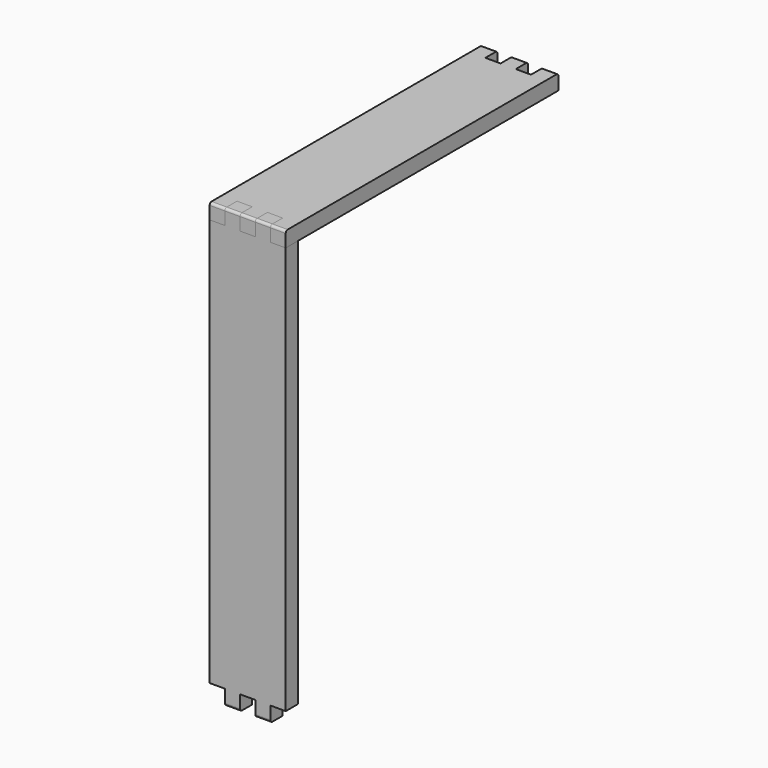
from build123d import *

# Parameters (mm, degrees)
F0_W     = 79.375
F0_H     = 457.2
F1_DEPTH = 15.875
F2_W     = 15.875
F2_H     = 15.875
F3_DEPTH = 15.875
F4_W     = 79.375
F4_H     = 355.6
F5_DEPTH = 15.875
F8_W     = 15.875
F8_H     = 15.875
F9_DEPTH = 15.875
F10_R    = 2.54
F10_2_R  = 2.54


with BuildPart() as f1:
    # F0 (on Front) → F1 (new body)
    with BuildSketch(Plane.XZ):
        with Locations((39.6875, 228.6)):
            Rectangle(F0_W, F0_H)
    extrude(amount=F1_DEPTH)

    # F2 (on face) → F3 (cut, through all)
    with BuildSketch(Plane.XZ.offset(15.875)):
        with Locations((7.9375, 449.2625)):
            Rectangle(F2_W, F2_H)
        with Locations((7.9375, 7.9375)):
            Rectangle(F2_W, F2_H)
        with Locations((39.6875, 449.2625)):
            Rectangle(F2_W, F2_H)
        with Locations((39.6875, 7.9375)):
            Rectangle(F2_W, F2_H)
        with Locations((71.4375, 449.2625)):
            Rectangle(F2_W, F2_H)
        with Locations((71.4375, 7.9375)):
            Rectangle(F2_W, F2_H)
    extrude(amount=-F3_DEPTH, mode=Mode.SUBTRACT)


with BuildPart() as f5:
    # F4 (on face) → F5 (new body)
    with BuildSketch(Plane.XY.offset(457.2)):
        with Locations((39.6875, 161.925)):
            Rectangle(F4_W, F4_H)
    extrude(amount=-F5_DEPTH)

    # F6: cut F1
    add(f1.part, mode=Mode.SUBTRACT)

    # F8 (on face) → F9 (cut, through all)
    with BuildSketch(Plane.XY.offset(457.2)):
        with Locations((23.8125, 331.7875)):
            Rectangle(F8_W, F8_H)
        with Locations((55.5625, 331.7875)):
            Rectangle(F8_W, F8_H)
    extrude(amount=-F9_DEPTH, mode=Mode.SUBTRACT)

    # F10
    f10_edges = [f5.edges().sort_by_distance(p)[0] for p in [
        (71.4375, -15.875, 457.2),
        (39.6875, -15.875, 457.2),
        (7.9375, -15.875, 457.2),
        (71.4375, 339.725, 457.2),
        (39.6875, 339.725, 457.2),
        (7.9375, 339.725, 457.2),
    ]]
    fillet(f10_edges, radius=F10_R)


with BuildPart() as f1_1:
    add(f1.part)

    # F10#2
    f10_2_edges = [f1_1.edges().sort_by_distance(p)[0] for p in [
        (55.5625, -15.875, 457.2),
        (23.8125, -15.875, 457.2),
        (23.8125, -15.875, 0),
        (55.5625, -15.875, 0),
    ]]
    fillet(f10_2_edges, radius=F10_2_R)


solid = Compound([f5.part, f1_1.part])
